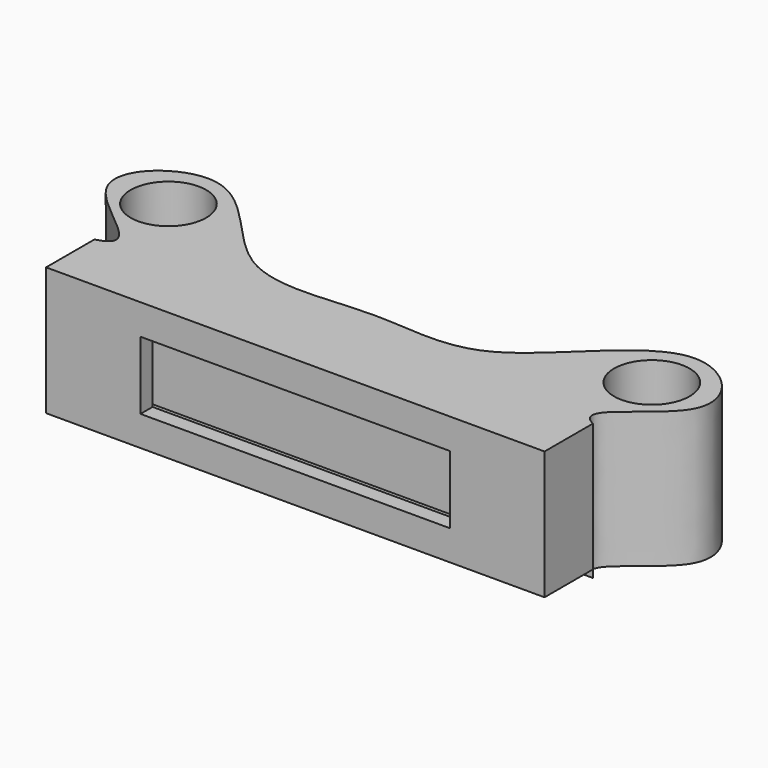
from build123d import *

# Parameters (mm, degrees)
F0_W     = 33
F0_H     = 3
F1_DEPTH = 8.5
F2_DEPTH = 9
F3_D     = 5
F4_W     = 29.5
F4_H     = 7
F5_DEPTH = 2
F6_W     = 33
F6_H     = 8.5
F7_DEPTH = 1
F8_W     = 20.5
F8_H     = 4.5
F9_DEPTH = 2


with BuildPart() as f1:
    # F0 (on Top) → F1 (new body)
    with BuildSketch(Plane.XY):
        Rectangle(F0_W, F0_H)
    extrude(amount=-F1_DEPTH)

    # F0 (on Top) → F2 (join)
    with BuildSketch(Plane.XY):
        with BuildLine():
            Line((-16.5, 1.5), (16.5, 1.5))
            add(Edge.make_bspline(
                [(-16.5, 1.5), (-13.5916556324, 2.237912442), (-23.414021641, 6.4013059033), (-14.658869967, 13.4109242996), (-9.1624283669, 2.2988306357), (0.0853379262, 4.6384206671), (7.9940055928, 2.4612393848), (15.1462169756, 13.7361596273), (22.8357037013, 5.6987815755), (14.3265083209, 2.5936309807), (16.5, 1.5)],
                knots=[0, 0, 0, 0, 0.1135094813, 0.2222781816, 0.3665914829, 0.5018425426, 0.6299483635, 0.7801740031, 0.8904647256, 1, 1, 1, 1], degree=3))
        make_face()
    extrude(amount=-F2_DEPTH)

    # F3 (through all)
    with Locations(Plane.XY):
        with Locations((-16, 7), (16, 7)):
            Hole(F3_D / 2)

    # F4 (on face) → F5 (cut)
    with BuildSketch(Plane.XZ.offset(1.5)):
        with Locations((0, -4.1863056831)):
            Rectangle(F4_W, F4_H)
    extrude(amount=-F5_DEPTH, mode=Mode.SUBTRACT)

    # F6 (on face) → F7 (join)
    with BuildSketch(Plane.XZ.offset(1.5)):
        with Locations((0, -4.25)):
            Rectangle(F6_W, F6_H)
    extrude(amount=F7_DEPTH)

    # F8 (on face) → F9 (cut)
    with BuildSketch(Plane.XZ.offset(2.5)):
        with Locations((0, -4.2598536238)):
            Rectangle(F8_W, F8_H)
    extrude(amount=-F9_DEPTH, mode=Mode.SUBTRACT)


solid = f1.part
